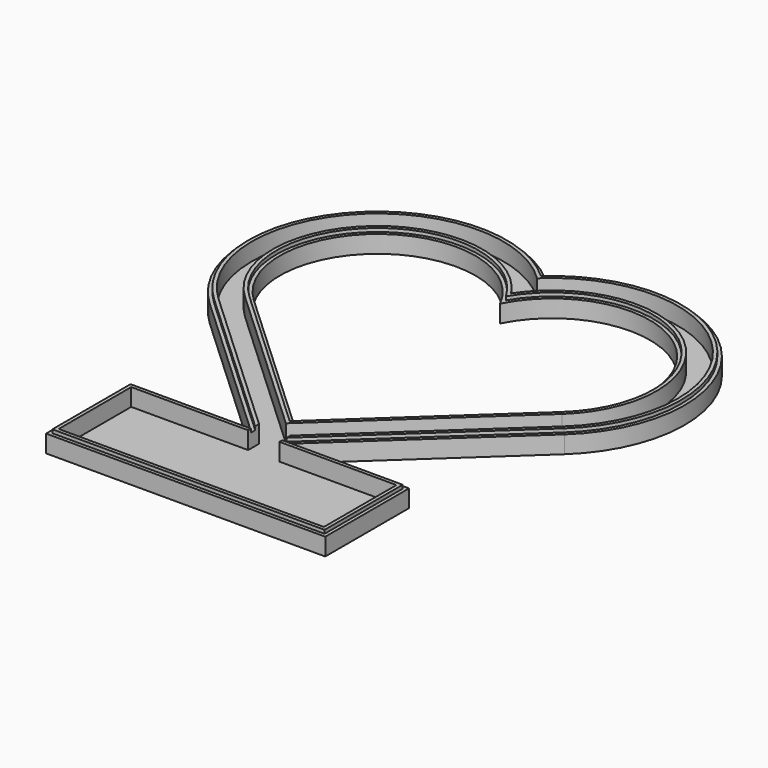
from build123d import *

# Parameters (mm, degrees)
PAD_DEPTH       = 10
PAD003_DEPTH    = 12
POCKET_DEPTH    = 10
PAD004_DEPTH    = 12
POCKET004_DEPTH = 2
POCKET001_DEPTH = 10.001
SKETCH004_W     = 160
SKETCH004_H     = 60
PAD002_DEPTH    = 10
SKETCH005_W     = 156
SKETCH005_H     = 56
PAD005_DEPTH    = 12
SKETCH009_W     = 152
SKETCH009_H     = 52
POCKET006_DEPTH = 10
SKETCH006_W     = 18
SKETCH006_H     = 12
POCKET005_DEPTH = 10


with BuildPart() as part:
    # Sketch001 → Pad (new body)
    with BuildSketch(Plane.XY):
        with BuildLine():
            ThreePointArc((0, 57.236352), (-106.486482, 50.845622), (-101.68, -55.72412))
            Line((-101.68, -55.72412), (0, -150.0248))
            Line((0, -150.0248), (101.68, -55.72412))
            ThreePointArc((101.68, -55.72412), (106.486482, 50.845622), (0, 57.236352))
        make_face()
    extrude(amount=PAD_DEPTH)

    # Sketch002 → Pad003 (join)
    with BuildSketch(Plane.XY):
        with BuildLine():
            ThreePointArc((0, 54.552727), (-104.405447, 50.160217), (-100.32, -54.257696))
            Line((-100.32, -54.257696), (0, -147.297076))
            Line((0, -147.297076), (100.32, -54.257696))
            ThreePointArc((100.32, -54.257696), (104.405447, 50.160217), (0, 54.552727))
        make_face()
    extrude(amount=PAD003_DEPTH)

    # Sketch007 → Pocket (cut)
    with BuildSketch(Plane.XY.offset(12)):
        with BuildLine():
            ThreePointArc((0, 51.807335), (-102.301889, 49.482446), (-98.96, -52.791272))
            Line((-98.96, -52.791272), (0, -144.569352))
            Line((0, -144.569352), (98.96, -52.791272))
            ThreePointArc((98.96, -52.791272), (102.301889, 49.482446), (0, 51.807335))
        make_face()
    extrude(amount=-POCKET_DEPTH, mode=Mode.SUBTRACT)

    # Sketch008 → Pad004 (join)
    with BuildSketch(Plane.XY):
        with BuildLine():
            ThreePointArc((0, 33.166248), (-88.852758, 45.721583), (-90.8, -43.992727))
            Line((-90.8, -43.992727), (0, -128.203011))
            Line((0, -128.203011), (90.8, -43.992727))
            ThreePointArc((90.8, -43.992727), (88.852758, 45.721583), (0, 33.166248))
        make_face()
    extrude(amount=PAD004_DEPTH)

    # Sketch003 → Pocket004 (cut)
    with BuildSketch(Plane.XY.offset(12)):
        with BuildLine():
            ThreePointArc((0, 29.393877), (-86.345652, 45.199486), (-89.44, -42.526302))
            Line((-89.44, -42.526302), (0, -125.475287))
            Line((0, -125.475287), (89.44, -42.526302))
            ThreePointArc((89.44, -42.526302), (86.345652, 45.199486), (0, 29.393877))
        make_face()
    extrude(amount=-POCKET004_DEPTH, mode=Mode.SUBTRACT)

    # Sketch → Pocket001 (cut, through all)
    with BuildSketch(Plane.XY.offset(10)):
        with BuildLine():
            ThreePointArc((0, 25.21904), (-83.671135, 44.74656), (-88.08, -41.059878))
            Line((-88.08, -41.059878), (0, -122.747563))
            Line((0, -122.747563), (88.08, -41.059878))
            ThreePointArc((88.08, -41.059878), (83.671135, 44.74656), (0, 25.21904))
        make_face()
    extrude(amount=-POCKET001_DEPTH, mode=Mode.SUBTRACT)

    # Sketch004 → Pad002 (join)
    with BuildSketch(Plane.XY):
        with Locations((0, -170)):
            Rectangle(SKETCH004_W, SKETCH004_H)
    extrude(amount=PAD002_DEPTH)

    # Sketch005 → Pad005 (join)
    with BuildSketch(Plane.XY):
        with Locations((0, -170)):
            Rectangle(SKETCH005_W, SKETCH005_H)
    extrude(amount=PAD005_DEPTH)

    # Sketch009 → Pocket006 (cut)
    with BuildSketch(Plane.XY.offset(12)):
        with Locations((0, -170)):
            Rectangle(SKETCH009_W, SKETCH009_H)
    extrude(amount=-POCKET006_DEPTH, mode=Mode.SUBTRACT)

    # Sketch006 → Pocket005 (cut)
    with BuildSketch(Plane.XY.offset(12)):
        with Locations((0, -142.076699)):
            Rectangle(SKETCH006_W, SKETCH006_H)
    extrude(amount=-POCKET005_DEPTH, mode=Mode.SUBTRACT)


solid = part.part
